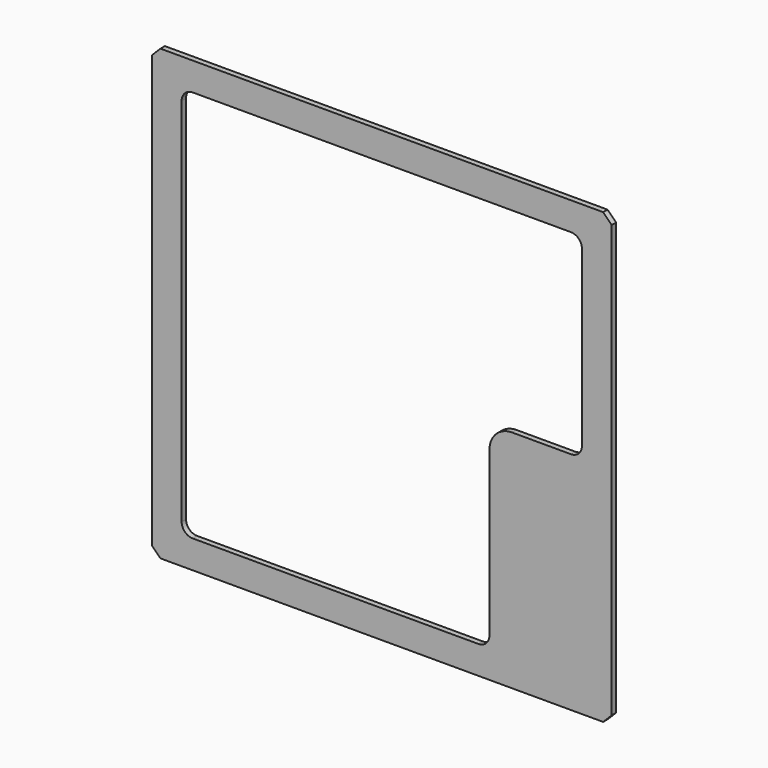
from build123d import *

# Parameters (mm, degrees)
F1_DEPTH = 2.54


with BuildPart() as f1:
    # F0 (on Front) → F1 (new body)
    with BuildSketch(Plane.XZ):
        Polygon((-106.045, -99.553687), (-102.093687, -103.505), (102.093687, -103.505), (106.045, -99.553687), (106.045, 99.553687), (102.093687, 103.505), (-102.093687, 103.505), (-106.045, 99.553687), align=None)
        with BuildLine():
            ThreePointArc((-92.329, 85.471), (-90.841102, 89.063102), (-87.249, 90.551))
            Line((-87.249, 90.551), (87.249, 90.551))
            ThreePointArc((87.249, 90.551), (90.841102, 89.063102), (92.329, 85.471))
            Line((92.329, 85.471), (92.329, 5.461))
            ThreePointArc((92.329, 5.461), (90.841102, 1.868898), (87.249, 0.381))
            Line((87.249, 0.381), (60.071, 0.381))
            ThreePointArc((60.071, 0.381), (52.70719, -2.66919), (49.657, -10.033))
            Line((49.657, -10.033), (49.657, -85.471))
            ThreePointArc((49.657, -85.471), (48.169102, -89.063102), (44.577, -90.551))
            Line((44.577, -90.551), (-87.249, -90.551))
            ThreePointArc((-87.249, -90.551), (-90.841102, -89.063102), (-92.329, -85.471))
            Line((-92.329, -85.471), (-92.329, 85.471))
        make_face(mode=Mode.SUBTRACT)
    extrude(amount=F1_DEPTH)


solid = f1.part
